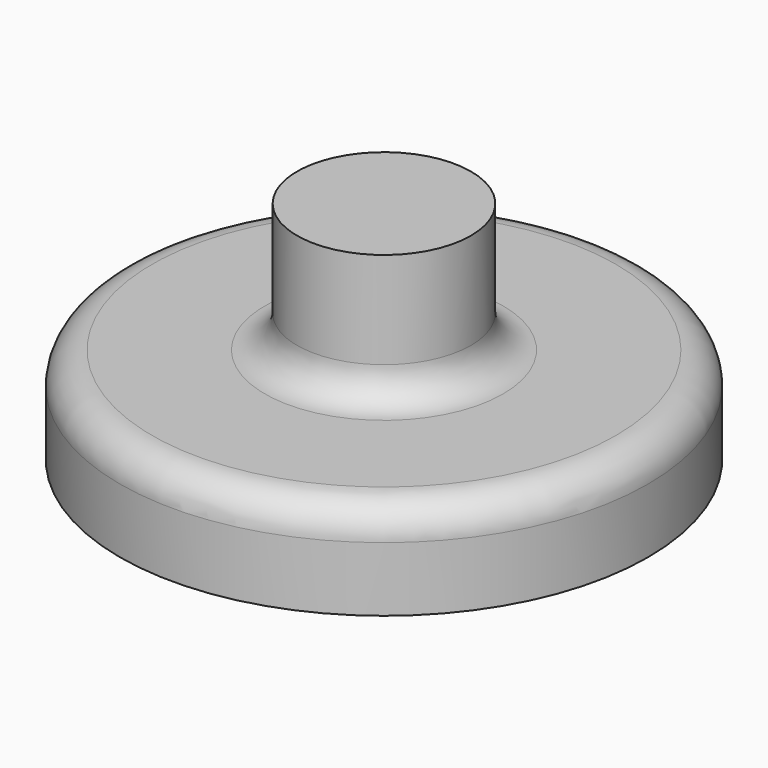
from build123d import *

# Parameters (mm, degrees)
F0_R     = 41
F0_R_2   = 13.5
F1_DEPTH = 15
F2_DEPTH = 35
F3_R     = 5


with BuildPart() as f1:
    # F0 (on Top) → F1 (new body)
    with BuildSketch(Plane.XY):
        Circle(F0_R)
        Circle(F0_R_2, mode=Mode.SUBTRACT)
    extrude(amount=F1_DEPTH)

    # F0 (on Top) → F2 (join)
    with BuildSketch(Plane.XY):
        Circle(F0_R_2)
    extrude(amount=F2_DEPTH)

    # F3
    f3_edges = [f1.edges().sort_by_distance(p)[0] for p in [
        (-41, 0, 15),
        (-13.5, 0, 15),
    ]]
    fillet(f3_edges, radius=F3_R)


solid = f1.part
